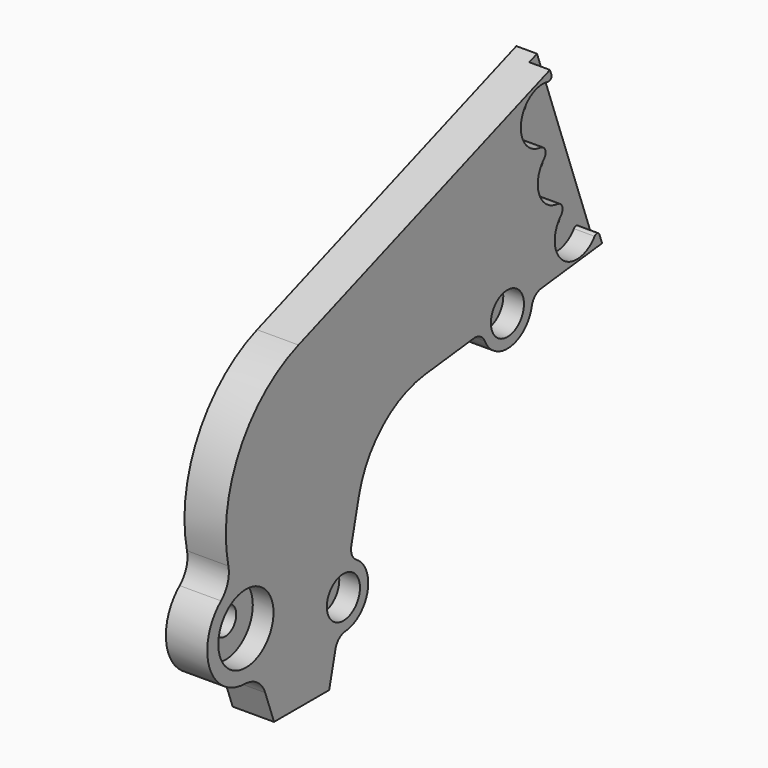
from build123d import *

# Parameters (mm, degrees)
F0_R     = 25
F0_R_2   = 15
F1_DEPTH = 15
F0_R_3   = 5
F2_DEPTH = 15
F0_R_4   = 10
F3_DEPTH = 15
F5_D     = 6
F6_DEPTH = 15


with BuildPart() as f1:
    # F0 (on Right) → F1 (new body, symmetric)
    with BuildSketch(Plane.YZ):
        with BuildLine():
            Line((-127.994926, -131.369472), (-120.040328, -153.224552))
            Line((-120.040328, -153.224552), (-70.040328, -153.224552))
            Line((-70.040328, -153.224552), (-64.332035, -129.30089))
            ThreePointArc((-64.332035, -129.30089), (-61.104878, -124.022259), (-55.3897, -121.652611))
            ThreePointArc((-55.3897, -121.652611), (-35.269445, -104.443983), (-45.452365, -80.004881))
            ThreePointArc((-45.452365, -80.004881), (-49.481937, -75.310092), (-49.978107, -69.143058))
            Line((-49.978107, -69.143058), (-43.121345, -40.406121))
            ThreePointArc((-43.121345, -40.406121), (-21.489193, -4.290197), (16.946071, 12.886543))
            Line((16.946071, 12.886543), (60.732447, 17.937229))
            ThreePointArc((60.732447, 17.937229), (66.796491, 16.710091), (70.977938, 12.150048))
            ThreePointArc((70.977938, 12.150048), (94.030291, -0.871109), (113.512771, 17.05637))
            ThreePointArc((113.512771, 17.05637), (116.546235, 22.448642), (122.171651, 25.024139))
            Line((122.171651, 25.024139), (184.91068, 32.260982))
            Line((184.91068, 32.260982), (137.02786, 163.817949))
            Line((137.02786, 163.817949), (-97.895296, 78.312913))
            ThreePointArc((-97.895296, 78.312913), (-151.269454, 32.618013), (-161.408791, -36.909094))
            ThreePointArc((-161.408791, -36.909094), (-162.020042, -47.608288), (-168.06693, -56.455973))
            ThreePointArc((-168.06693, -56.455973), (-178.532493, -94.846055), (-146.326766, -118.215212))
            ThreePointArc((-146.326766, -118.215212), (-135.128773, -121.960435), (-127.994926, -131.369472))
        make_face()
        with Locations((-145.518244, -83.224552)):
            Circle(F0_R, mode=Mode.SUBTRACT)
        with Locations((-57.155071, -99.221974)):
            Circle(F0_R_2, mode=Mode.SUBTRACT)
        with Locations((91.452049, 21.480684)):
            Circle(F0_R_2, mode=Mode.SUBTRACT)
    extrude(amount=F1_DEPTH, both=True)

    # F0 (on Right) → F2 (join)
    with BuildSketch(Plane.YZ):
        with Locations((91.452049, 21.480684)):
            Circle(F0_R_2)
        with Locations((91.452049, 21.480684)):
            Circle(F0_R_3, mode=Mode.SUBTRACT)
        with Locations((-57.155071, -99.221974)):
            Circle(F0_R_2)
        with Locations((-57.155071, -99.221974)):
            Circle(F0_R_3, mode=Mode.SUBTRACT)
    extrude(amount=-F2_DEPTH)

    # F0 (on Right) → F3 (join)
    with BuildSketch(Plane.YZ):
        with Locations((-145.518244, -83.224552)):
            Circle(F0_R)
        with Locations((-145.518244, -83.224552)):
            Circle(F0_R_4, mode=Mode.SUBTRACT)
    extrude(amount=-F3_DEPTH)

    # F5 (through all)
    with Locations(Plane.YZ.offset(15)):
        with Locations((123.580229, 134.979412), (138.971135, 92.693244), (154.362042, 50.407076)):
            Hole(F5_D / 2)

    # F4 (on face) → F6 (cut)
    with BuildSketch(Plane.YZ.offset(15)):
        with BuildLine():
            Line((137.02786, 163.817949), (129.980165, 161.252798))
            Line((129.980165, 161.252798), (131.277007, 157.689753))
            ThreePointArc((131.277007, 157.689753), (130.789297, 155.16595), (128.333604, 154.406337))
            ThreePointArc((128.333604, 154.406337), (103.871801, 138.38204), (121.544541, 115.083282))
            ThreePointArc((121.544541, 115.083282), (125.734082, 111.81935), (124.622722, 106.626049))
            ThreePointArc((124.622722, 106.626049), (120.177283, 85.852841), (136.935447, 72.797114))
            ThreePointArc((136.935447, 72.797114), (141.124989, 69.533182), (140.013629, 64.339881))
            ThreePointArc((140.013629, 64.339881), (141.451678, 35.132178), (170.490725, 38.580598))
            ThreePointArc((170.490725, 38.580598), (172.860165, 39.577191), (174.856042, 37.957339))
            Line((174.856042, 37.957339), (177.250928, 31.377442))
            Line((177.250928, 31.377442), (184.91068, 32.260982))
            Line((184.91068, 32.260982), (137.02786, 163.817949))
        make_face()
    extrude(amount=-F6_DEPTH, mode=Mode.SUBTRACT)


solid = f1.part
